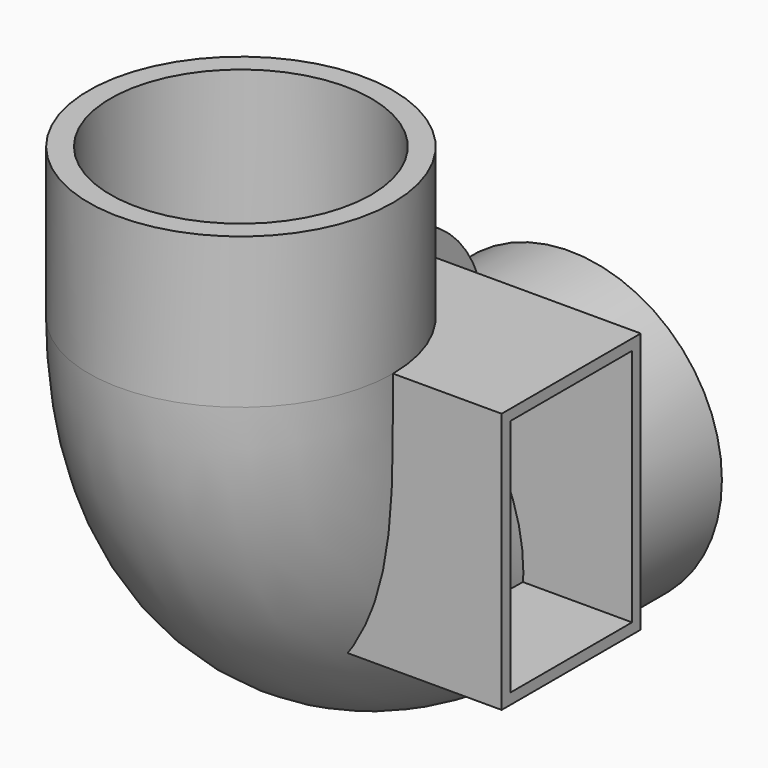
from build123d import *

# Parameters (mm, degrees)
F0_W     = 76.2
F0_H     = 50.8
F1_DEPTH = 76.2
F2_W     = 44.45
F2_H     = 69.85
F3_DEPTH = 76.2
F4_R     = 38.1
F4_R_2   = 31.75
F5_DEPTH = 50.8
F7_DEPTH = 5.08
F10_R    = 44.45
F10_R_2  = 38.1


with BuildPart() as f1:
    # F0 (on Top) → F1 (new body)
    with BuildSketch(Plane.XY):
        with Locations((38.1, 25.4)):
            Rectangle(F0_W, F0_H)
    extrude(amount=F1_DEPTH)

    # F2 (on face) → F3 (cut, through all)
    with BuildSketch(Plane.YZ.offset(76.2)):
        with Locations((25.4, 38.1)):
            Rectangle(F2_W, F2_H)
    extrude(amount=-F3_DEPTH, mode=Mode.SUBTRACT)

    # F4 (on Right) → F5 (join)
    with BuildSketch(Plane.YZ):
        with Locations((51.022876054, 38.1)):
            Circle(F4_R)
        with Locations((51.022876054, 38.1)):
            Circle(F4_R_2, mode=Mode.SUBTRACT)
    extrude(amount=-F5_DEPTH)

    # F6 (on Right) → F7 (join)
    with BuildSketch(Plane.YZ):
        with BuildLine():
            ThreePointArc((41.91, 1.1058722224), (12.922876054, 38.1), (41.91, 75.0941277776))
            Line((41.91, 75.0941277776), (41.91, 76.2))
            Line((41.91, 76.2), (0, 76.2))
            Line((0, 76.2), (0, 0))
            Line((0, 0), (41.91, 0))
            Line((41.91, 0), (41.91, 1.1058722224))
        make_face()
    extrude(amount=-F7_DEPTH)


with BuildPart() as f11:
    # F11: sweep along a path in F8
    with BuildLine(Plane.YZ) as f11_path:
        Line((0, 120.142), (0, 76.2))
        ThreePointArc((0, 76.2), (22.3184632736, 22.3184632736), (76.2, 0))
        Line((76.2, 0), (120.142, 0))
    # F10 (on plane+point) → F11 (sweep)
    with BuildSketch(Plane.XY.offset(120.142)):
        Circle(F10_R)
        Circle(F10_R_2, mode=Mode.SUBTRACT)
    sweep(path=f11_path.line)


solid = Compound([f1.part, f11.part])
